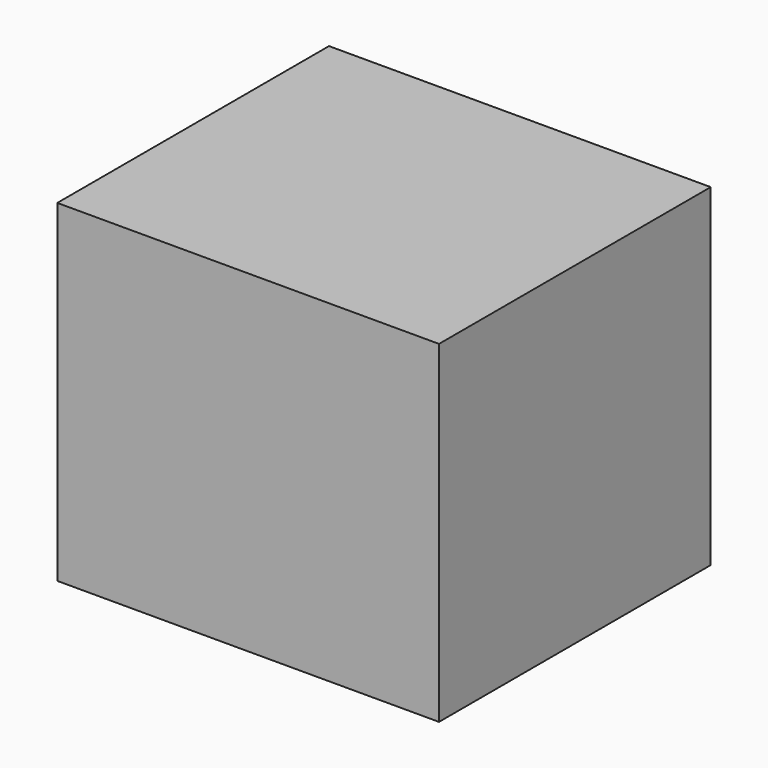
from build123d import *

# Parameters (mm, degrees)
CYLINDER_R       = 32.5
CYLINDER_DEPTH   = 1
SKETCH001_R      = 2
EXTRUDE_DEPTH    = 3.2
SKETCH002_W      = 124.950363
SKETCH002_H      = 122.837688
EXTRUDE001_DEPTH = 160
SKETCH003_W      = 298.233032
SKETCH003_H      = 265.319916
EXTRUDE002_DEPTH = 130


with BuildPart() as body:
    # Sketch → Revolution (revolve)
    with BuildSketch(Plane.YZ):
        Polygon((-45, -63.973707), (-46, -63.973707), (-2.1, 70.291405), (0, 70.291405), (0, 69.291405), (-2.1, 69.291405), align=None)
    revolve(axis=Axis((0, 0, 0), (0, 0, 1)))


with BuildPart() as gnd_plate:
    # Cylinder → Cylinder (new body)
    with BuildSketch(Plane.XY.offset(71.5)):
        Circle(CYLINDER_R)
    extrude(amount=CYLINDER_DEPTH)


with BuildPart() as port_in:
    # Sketch001 (on Face5 of Revolution) → Extrude (new body)
    with BuildSketch(Plane(origin=(0, 0, 70.291405), x_dir=(0, -1, 0), z_dir=(0, 0, 1))):
        Circle(SKETCH001_R)
    extrude(amount=EXTRUDE_DEPTH)


with BuildPart() as port_in_1:
    # Extrude placement: moved
    add(port_in.part.moved(Location((0, 0, -1))))


with BuildPart() as simbox:
    # Sketch002 → Extrude001 (new body)
    with BuildSketch(Plane.XY.offset(20)):
        with Locations((0.74118, 0.828062)):
            Rectangle(SKETCH002_W, SKETCH002_H)
    extrude(amount=EXTRUDE001_DEPTH)


with BuildPart() as simbox_1:
    # Extrude001 placement: moved
    add(simbox.part.moved(Location((0, 0, -95))))


with BuildPart() as simbox2:
    # Sketch003 → Extrude002 (new body, symmetric)
    with BuildSketch(Plane.XY.offset(45)):
        with Locations((3.540405, 0.152069)):
            Rectangle(SKETCH003_W, SKETCH003_H)
    extrude(amount=EXTRUDE002_DEPTH, both=True)


with BuildPart() as simbox2_1:
    # Extrude002 placement: moved
    add(simbox2.part.moved(Location((0, 0, -20))))


solid = Compound([body.part, gnd_plate.part, port_in_1.part, simbox_1.part, simbox2_1.part])
